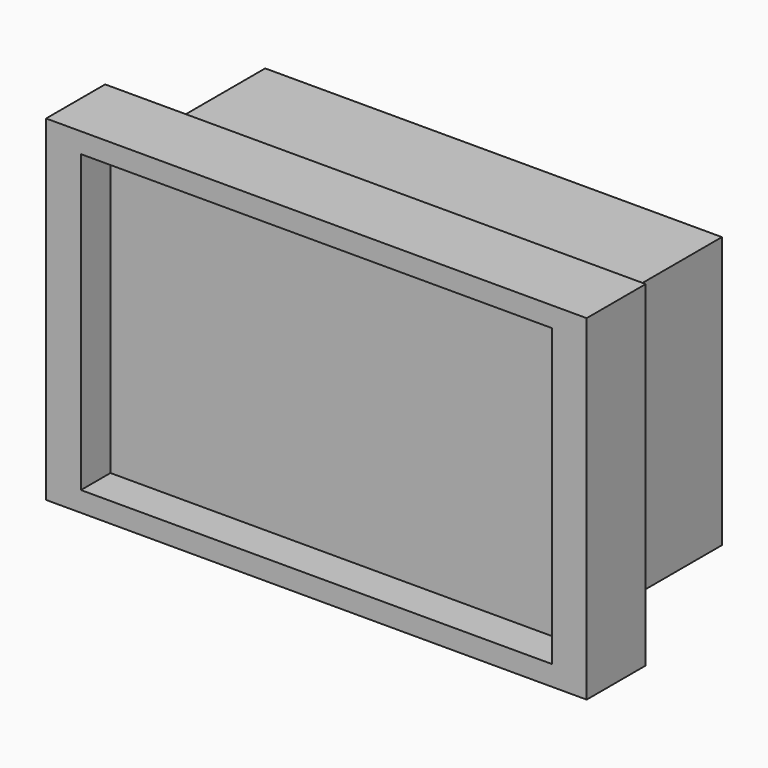
from build123d import *

# Parameters (mm, degrees)
F0_W     = 81.626944
F0_H     = 51.38012
F1_DEPTH = 6.35
F2_W     = 92.995196
F2_H     = 57.772774
F2_W_2   = 81.00345
F2_H_2   = 50.874696
F3_DEPTH = 12.7
F4_W     = 78.571246
F4_H     = 46.661102
F5_DEPTH = 25.4
F6_W     = 53.555076
F6_H     = 27.672314
F7_DEPTH = 12.7


with BuildPart() as f1:
    # F0 (on Front) → F1 (new body)
    with BuildSketch(Plane.XZ):
        Rectangle(F0_W, F0_H)
    extrude(amount=F1_DEPTH)

    # F2 (on Front) → F3 (join)
    with BuildSketch(Plane.XZ):
        Rectangle(F2_W, F2_H)
        Rectangle(F2_W_2, F2_H_2, mode=Mode.SUBTRACT)
    extrude(amount=F3_DEPTH)

    # F4 (on face) → F5 (join)
    with BuildSketch(Plane(origin=(0, 0, 0), x_dir=(-1, 0, 0), z_dir=(0, 1, 0))):
        Rectangle(F4_W, F4_H)
    extrude(amount=F5_DEPTH)

    # F6 (on face) → F7 (join)
    with BuildSketch(Plane(origin=(0, 25.4, 0), x_dir=(-1, 0, 0), z_dir=(0, 1, 0))):
        with Locations((0, -4.375952)):
            Rectangle(F6_W, F6_H)
    extrude(amount=F7_DEPTH)


solid = f1.part
